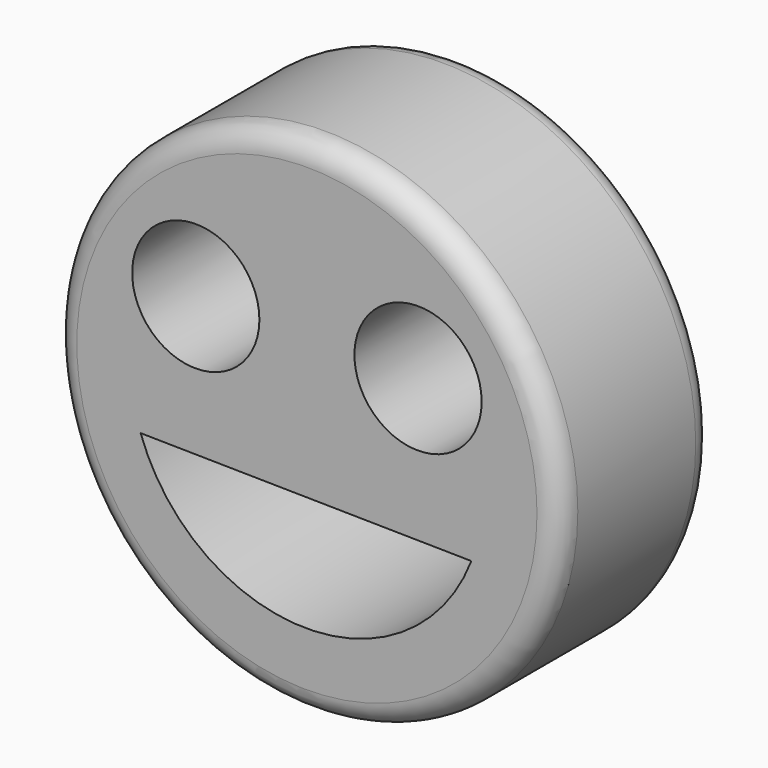
from build123d import *

# Parameters (mm, degrees)
F0_R     = 56.634514
F0_R_2   = 14.25202
F1_DEPTH = 43.18
F2_R     = 5.08


with BuildPart() as f1:
    # F0 (on Front) → F1 (new body)
    with BuildSketch(Plane.XZ):
        Circle(F0_R)
        with BuildLine():
            ThreePointArc((36.836641, -14.160916), (-0.605346, -39.460147), (-37.253682, -13.024319))
            Line((-37.253682, -13.024319), (36.836641, -14.160916))
        make_face(mode=Mode.SUBTRACT)
        with Locations((-24.897231, 17.987859)):
            Circle(F0_R_2, mode=Mode.SUBTRACT)
        with Locations((24.897231, 17.987859)):
            Circle(F0_R_2, mode=Mode.SUBTRACT)
    extrude(amount=F1_DEPTH)

    # F2
    f2_edges = [f1.edges().sort_by_distance(p)[0] for p in [
        (-56.634514, -43.18, 0),
        (56.634514, -21.59, 0),
        (-56.634514, 0, 0),
    ]]
    fillet(f2_edges, radius=F2_R)


solid = f1.part
